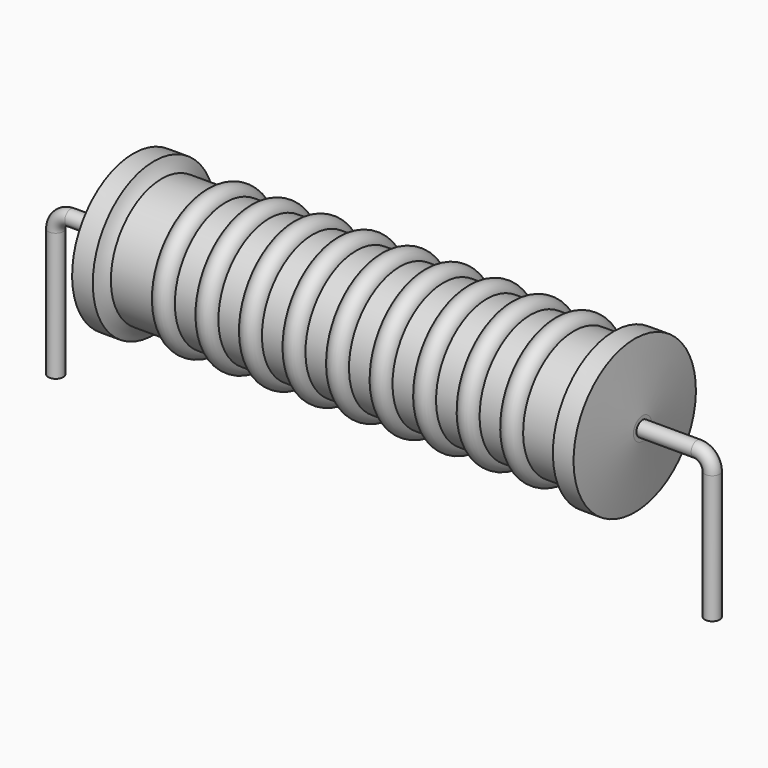
from build123d import *

# Parameters (mm, degrees)
SKETCH_R = 0.35


with BuildPart() as revolution:
    # Sketch002 → Revolution (revolve)
    with BuildSketch(Plane.XZ):
        with BuildLine():
            Line((3.6, 7.2), (4.56, 7.2))
            ThreePointArc((4.56, 7.2), (4.707768, 6.880661), (4.92, 6.6))
            Line((4.92, 6.6), (25.56, 6.6))
            ThreePointArc((25.56, 6.6), (25.772232, 6.880661), (25.92, 7.2))
            Line((25.92, 7.2), (26.88, 7.2))
            ThreePointArc((27.24, 4.175), (27.064906, 5.688084), (26.88, 7.2))
            Line((27.24, 3.65), (27.24, 4.175))
            Line((3.24, 3.65), (27.24, 3.65))
            Line((3.24, 3.65), (3.24, 4.175))
            ThreePointArc((3.6, 7.2), (3.415094, 5.688084), (3.24, 4.175))
        make_face()
    revolve(axis=Axis((3.24, 0, 3.65), (1, 0, 0)))


with BuildPart() as sweep_body:
    # Sweep: sweep along a path in Sketch001
    with BuildLine(Plane.XZ) as sweep_path:
        Line((0, -3), (0, 2.95))
        ThreePointArc((0, 2.95), (0.205028, 3.444977), (0.700007, 3.65))
        Line((0.700007, 3.65), (29.78, 3.65))
        ThreePointArc((29.78, 3.65), (30.274975, 3.444975), (30.48, 2.95))
        Line((30.48, 2.95), (30.48, -3))
    # Sketch → Sweep (sweep)
    with BuildSketch(Plane.XY.offset(-2)):
        Circle(SKETCH_R)
    sweep(path=sweep_path.line)


with BuildPart() as revolution001:
    # Sketch003 → Revolution001 (revolve)
    with BuildSketch(Plane.XZ):
        with BuildLine():
            ThreePointArc((7.901053, 6.504), (7.395789, 7.009263), (6.890526, 6.504))
            Line((5.88, 6.504), (6.890526, 6.504))
            Line((5.88, 6.504), (5.88, 5.794))
            Line((5.88, 5.794), (25.08, 5.794))
            Line((25.08, 5.794), (25.08, 6.504))
            Line((24.069474, 6.504), (25.08, 6.504))
            ThreePointArc((24.069474, 6.504), (23.564211, 7.009263), (23.058947, 6.504))
            Line((22.048421, 6.504), (23.058947, 6.504))
            ThreePointArc((22.048421, 6.504), (21.543158, 7.009263), (21.037895, 6.504))
            Line((20.027368, 6.504), (21.037895, 6.504))
            ThreePointArc((20.027368, 6.504), (19.522105, 7.009263), (19.016842, 6.504))
            Line((18.006316, 6.504), (19.016842, 6.504))
            ThreePointArc((18.006316, 6.504), (17.501053, 7.009263), (16.995789, 6.504))
            Line((15.985263, 6.504), (16.995789, 6.504))
            ThreePointArc((15.985263, 6.504), (15.48, 7.009263), (14.974737, 6.504))
            Line((13.964211, 6.504), (14.974737, 6.504))
            ThreePointArc((13.964211, 6.504), (13.458947, 7.009263), (12.953684, 6.504))
            Line((11.943158, 6.504), (12.953684, 6.504))
            ThreePointArc((11.943158, 6.504), (11.437895, 7.009263), (10.932632, 6.504))
            Line((9.922105, 6.504), (10.932632, 6.504))
            ThreePointArc((9.922105, 6.504), (9.416842, 7.009263), (8.911579, 6.504))
            Line((7.901053, 6.504), (8.911579, 6.504))
        make_face()
    revolve(axis=Axis((3.84, 0, 3.65), (1, 0, 0)))


solid = Compound([revolution.part, sweep_body.part, revolution001.part])
